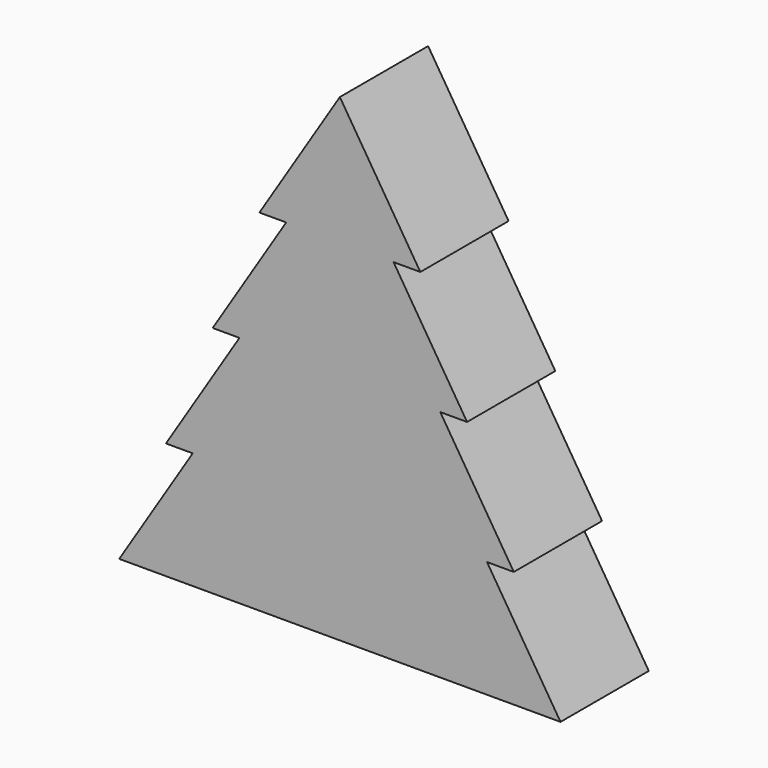
from build123d import *

# Parameters (mm, degrees)
F1_DEPTH = 20


with BuildPart() as f1:
    # F0 (on Front) → F1 (new body)
    with BuildSketch(Plane.XZ):
        Polygon((0, 86.717134), (0, 0), (40, 0), (26.673388, 21.179436), (31.528226, 21.179436), (18.201613, 42.358872), (23.056451, 42.358872), (9.729839, 63.538307), (14.584677, 63.538307), align=None)
    extrude(amount=F1_DEPTH)

    # F2: F1 across plane


with BuildPart() as f1_1:
    add(f1.part)
    add(f1.part.mirror(Plane.YZ))


solid = f1_1.part
